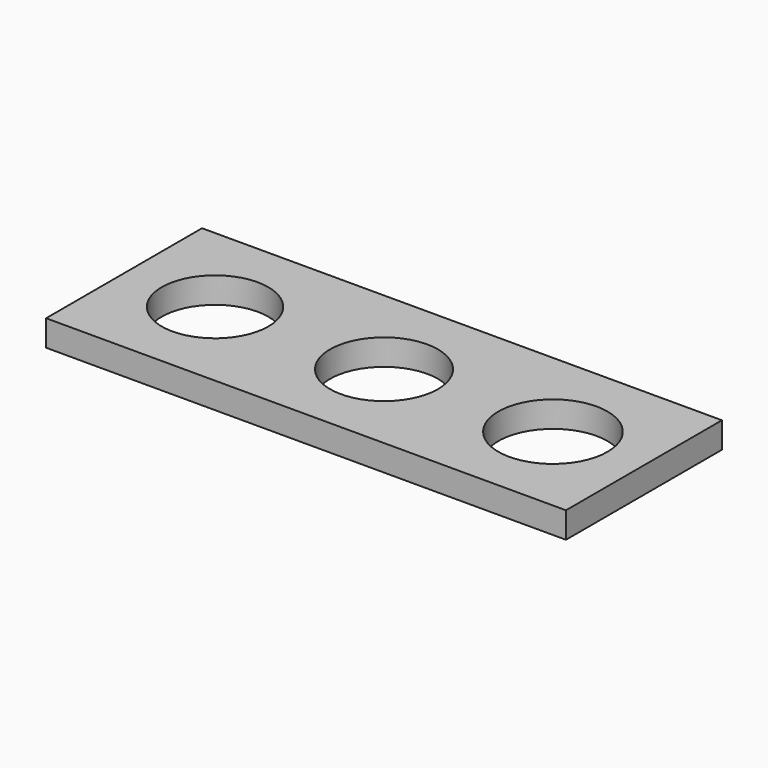
from build123d import *

# Parameters (mm, degrees)
SKETCH_W   = 40
SKETCH_H   = 15
SKETCH_R   = 4.1
SKETCH_R_2 = 4.15
SKETCH_R_3 = 4.2
PAD_DEPTH  = 2


with BuildPart() as part:
    # Sketch → Pad (new body)
    with BuildSketch(Plane.XY):
        with Locations((20, 7.5)):
            Rectangle(SKETCH_W, SKETCH_H)
        with Locations((7, 7.5)):
            Circle(SKETCH_R, mode=Mode.SUBTRACT)
        with Locations((20, 7.5)):
            Circle(SKETCH_R_2, mode=Mode.SUBTRACT)
        with Locations((33, 7.5)):
            Circle(SKETCH_R_3, mode=Mode.SUBTRACT)
    extrude(amount=PAD_DEPTH)


solid = part.part
